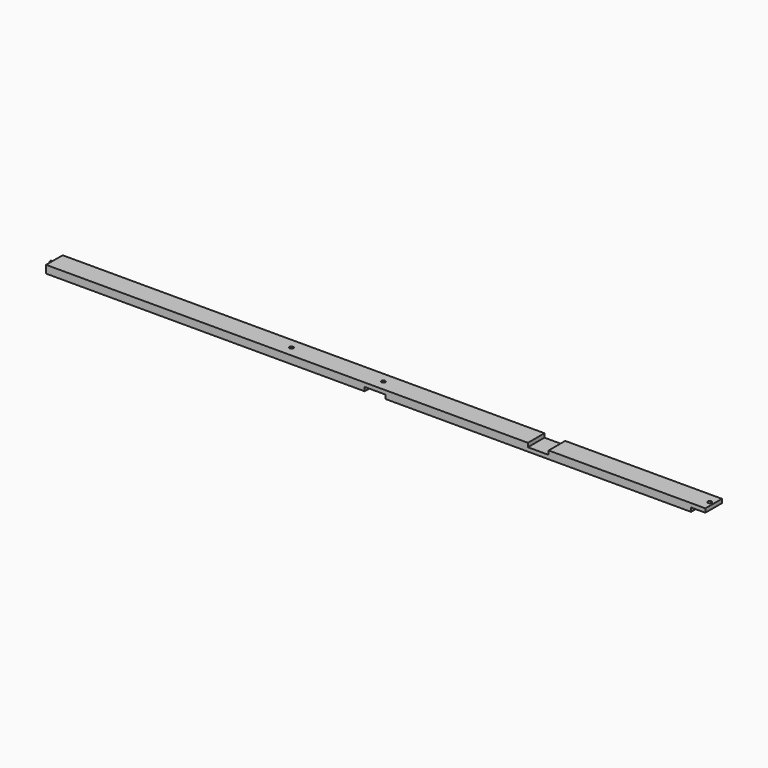
from build123d import *

# Parameters (mm, degrees)
F1_DEPTH = 50.8
F3_R     = 4.7625
F4_DEPTH = 12.7
F5_R     = 4.7625
F6_DEPTH = 9.525
F7_W     = 50.8
F7_H     = 119.94423
F8_DEPTH = 25.4


with BuildPart() as f1:
    # F0 (on Front) → F1 (new body)
    with BuildSketch(Plane.XZ):
        Polygon((1616.075, 9.525), (1616.075, 19.05), (0, 19.05), (0, 0), (781.05, 0), (781.05, 9.525), (831.85, 9.525), (831.85, 0), (1581.15, 0), (1581.15, 9.525), align=None)
    extrude(amount=F1_DEPTH)

    # F3 (on offset) → F4 (cut, symmetric)
    with BuildSketch(Plane.XY.offset(9.525)):
        with Locations((806.45, -25.4)):
            Circle(F3_R)
        with Locations((1606.55, -25.4)):
            Circle(F3_R)
        with Locations((581.025, -25.4)):
            Circle(F3_R)
    extrude(amount=F4_DEPTH, both=True, mode=Mode.SUBTRACT)

    # F5 (on Right) → F6 (join)
    with BuildSketch(Plane.YZ):
        with Locations((-25.4, 9.525)):
            Circle(F5_R)
    extrude(amount=-F6_DEPTH)

    # F7 (on offset) → F8 (cut)
    with BuildSketch(Plane.XY.offset(9.525)):
        with Locations((1206.5, -29.657498)):
            Rectangle(F7_W, F7_H)
    extrude(amount=F8_DEPTH, mode=Mode.SUBTRACT)


solid = f1.part
